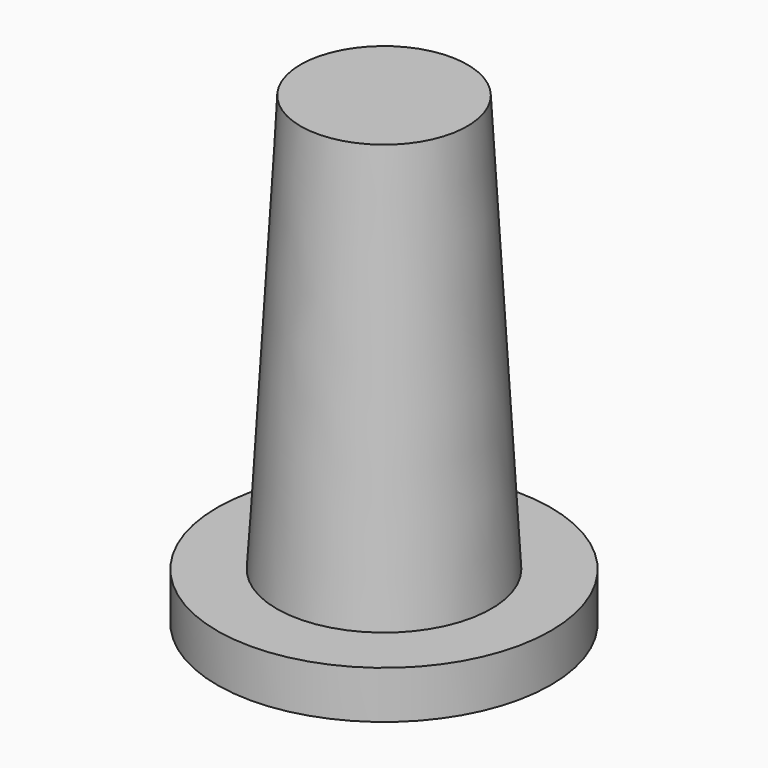
from build123d import *


with BuildPart() as part:
    # Sketch → Revolution (revolve)
    with BuildSketch(Plane.XZ):
        Polygon((-7, 2), (-7, 0), (0, 0), (0, 19.5), (-3.5, 19.5), (-4.5, 2), align=None)
    revolve(axis=Axis((0, 0, 0), (0, 0, 1)))


solid = part.part
